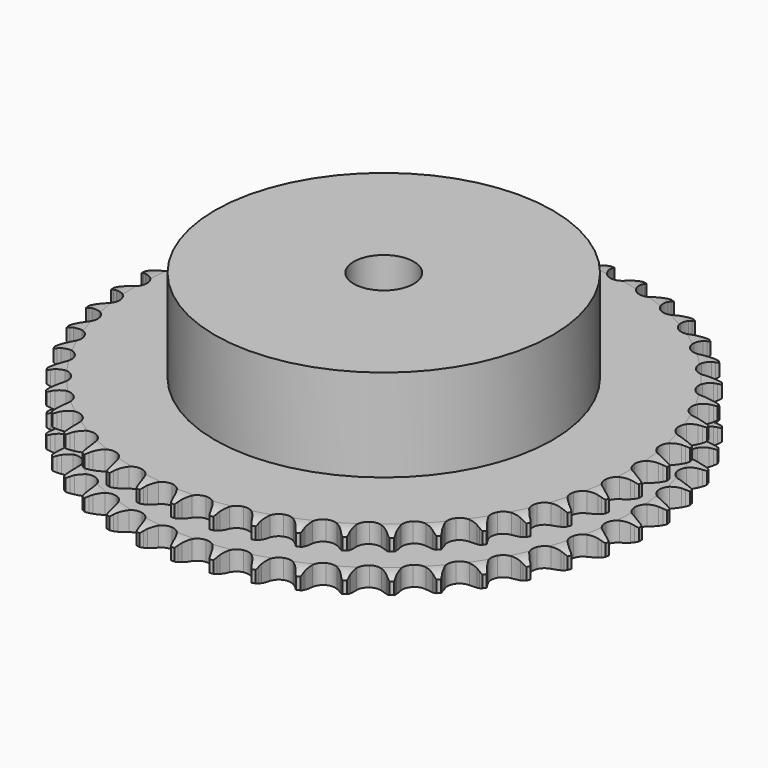
from build123d import *

# Parameters (mm, degrees)
PAD_DEPTH         = 15.4
SKETCH001_R       = 45
PAD001_DEPTH      = 40
SKETCH002_R       = 8
POCKET_DEPTH      = 0.001
POCKET_DEPTH_BACK = 40.001


with BuildPart() as part:
    # Sprocket → Pad (new body)
    with BuildSketch(Plane.XY):
        with BuildLine():
            ThreePointArc((-4.962086, 70.961138), (-4.431722, 70.206206), (-4.045487, 69.368333))
            Line((-4.045487, 69.368333), (-3.736247, 68.498819))
            ThreePointArc((-3.736247, 68.498819), (-3.247048, 67.387906), (-2.60121, 66.360124))
            ThreePointArc((-2.60121, 66.360124), (-1.457549, 65.391943), (0, 65.044258))
            ThreePointArc((0, 65.044258), (1.457549, 65.391943), (2.60121, 66.360124))
            ThreePointArc((2.60121, 66.360124), (3.247048, 67.387906), (3.736247, 68.498819))
            Line((3.736247, 68.498819), (4.045487, 69.368333))
            ThreePointArc((4.045487, 69.368333), (4.431722, 70.206206), (4.962086, 70.961138))
            ThreePointArc((4.962086, 70.961138), (5.382223, 70.139741), (5.648089, 69.256268))
            Line((5.648089, 69.256268), (5.833307, 68.352178))
            ThreePointArc((5.833307, 68.352178), (6.163136, 67.183993), (6.659649, 66.07633))
            ThreePointArc((6.659649, 66.07633), (7.657435, 64.958405), (9.052411, 64.411252))
            ThreePointArc((9.052411, 64.411252), (10.544164, 64.552702), (11.811439, 65.352293))
            Line((11.811439, 65.352293), (13.233079, 67.312208))
            ThreePointArc((13.233079, 67.312208), (13.435335, 67.727151), (13.660323, 68.130222))
            ThreePointArc((13.660323, 68.130222), (14.159408, 68.906188), (14.789677, 69.579961))
            ThreePointArc((14.789677, 69.579961), (15.091409, 68.708085), (15.231732, 67.796209))
            Line((15.231732, 67.796209), (15.289322, 66.87514))
            ThreePointArc((15.289322, 66.87514), (15.453362, 65.672421), (15.790886, 64.506436))
            ThreePointArc((15.790886, 64.506436), (16.623377, 63.260525), (17.928627, 62.524554))
            ThreePointArc((17.928627, 62.524554), (19.425548, 62.457016), (20.791772, 63.072455))
            Line((20.791772, 63.072455), (22.472344, 64.815442))
            ThreePointArc((22.472344, 64.815442), (22.730381, 65.198198), (23.009276, 65.566034))
            ThreePointArc((23.009276, 65.566034), (23.611497, 66.264989), (24.329404, 66.844488))
            ThreePointArc((24.329404, 66.844488), (24.506858, 65.939105), (24.518907, 65.016573))
            Line((24.518907, 65.016573), (24.447748, 64.096453))
            ThreePointArc((24.447748, 64.096453), (24.442805, 62.882609), (24.614771, 61.680997))
            ThreePointArc((24.614771, 61.680997), (25.265762, 60.331351), (26.455883, 59.420887))
            ThreePointArc((26.455883, 59.420887), (27.928837, 59.145674), (29.367417, 59.564982))
            Line((29.367417, 59.564982), (31.274211, 61.057116))
            ThreePointArc((31.274211, 61.057116), (31.583006, 61.400236), (31.910379, 61.725678))
            ThreePointArc((31.910379, 61.725678), (32.604016, 62.334017), (33.395587, 62.807963))
            ThreePointArc((33.395587, 62.807963), (33.445308, 61.886694), (33.328848, 60.971464))
            Line((33.328848, 60.971464), (33.130327, 60.070202))
            ThreePointArc((33.130327, 60.070202), (32.956497, 58.868859), (32.959557, 57.655008))
            ThreePointArc((32.959557, 57.655008), (33.416379, 56.227896), (34.468205, 55.160659))
            ThreePointArc((34.468205, 55.160659), (35.888522, 54.68313), (37.371459, 54.898146))
            Line((37.371459, 54.898146), (39.467361, 56.110384))
            ThreePointArc((39.467361, 56.110384), (39.820904, 56.407188), (40.190384, 56.683901))
            ThreePointArc((40.190384, 56.683901), (40.961934, 57.189785), (41.811762, 57.548953))
            ThreePointArc((41.811762, 57.548953), (41.732784, 56.62973), (41.490082, 55.739615))
            Line((41.490082, 55.739615), (41.168061, 54.874753))
            ThreePointArc((41.168061, 54.874753), (40.828728, 53.709293), (40.662823, 52.506829))
            ThreePointArc((40.662823, 52.506829), (40.916584, 51.030029), (41.809643, 49.826793))
            ThreePointArc((41.809643, 49.826793), (43.149678, 49.156241), (44.648108, 49.162779))
            Line((44.648108, 49.162779), (46.892323, 50.071526))
            ThreePointArc((46.892323, 50.071526), (47.283733, 50.316239), (47.688128, 50.538837))
            ThreePointArc((47.688128, 50.538837), (48.522575, 50.932419), (49.414119, 51.169818))
            ThreePointArc((49.414119, 51.169818), (49.207978, 50.270532), (48.843759, 49.422857))
            Line((48.843759, 49.422857), (48.404506, 48.611229))
            ThreePointArc((48.404506, 48.611229), (47.906275, 47.504337), (47.574634, 46.336665))
            ThreePointArc((47.574634, 46.336665), (47.620394, 44.838921), (48.337304, 43.523104))
            ThreePointArc((48.337304, 43.523104), (49.570975, 42.672581), (51.055732, 42.470514))
            Line((51.055732, 42.470514), (53.40458, 43.058084))
            ThreePointArc((53.40458, 43.058084), (53.826238, 43.245941), (54.257677, 43.410092))
            ThreePointArc((54.257677, 43.410092), (55.13878, 43.683711), (56.054687, 43.794721))
            ThreePointArc((56.054687, 43.794721), (55.725396, 42.932876), (55.246747, 42.14414))
            Line((55.246747, 42.14414), (54.698812, 41.401543))
            ThreePointArc((54.698812, 41.401543), (54.05138, 40.374763), (53.560458, 39.264611))
            ThreePointArc((53.560458, 39.264611), (53.397327, 37.775073), (53.924134, 36.372288))
            ThreePointArc((53.924134, 36.372288), (55.027429, 35.358348), (56.469614, 34.95161))
            Line((56.469614, 34.95161), (58.877377, 35.206564))
            ThreePointArc((58.877377, 35.206564), (59.321076, 35.33391), (59.771162, 35.436419))
            ThreePointArc((59.771162, 35.436419), (60.68177, 35.584749), (61.604213, 35.567209))
            ThreePointArc((61.604213, 35.567209), (61.158181, 34.75958), (60.57442, 34.045135))
            Line((60.57442, 34.045135), (59.928468, 33.386022))
            ThreePointArc((59.928468, 33.386022), (59.144437, 32.459341), (58.503789, 31.428315))
            ThreePointArc((58.503789, 31.428315), (58.134942, 29.975977), (58.461392, 28.513526))
            ThreePointArc((58.461392, 28.513526), (59.412837, 27.355905), (60.784379, 26.752412))
            Line((60.784379, 26.752412), (63.204193, 26.669789))
            ThreePointArc((63.204193, 26.669789), (63.661297, 26.734145), (64.121269, 26.773016))
            ThreePointArc((64.121269, 26.773016), (65.043659, 26.79317), (65.954684, 26.647422))
            ThreePointArc((65.954684, 26.647422), (65.400593, 25.909729), (64.723081, 25.283481))
            Line((64.723081, 25.283481), (63.991684, 24.720681))
            ThreePointArc((63.991684, 24.720681), (63.086314, 23.912134), (62.30841, 22.980303))
            ThreePointArc((62.30841, 22.980303), (61.741027, 21.593433), (61.860766, 20.099781))
            ThreePointArc((61.860766, 20.099781), (62.641841, 18.821011), (63.916046, 18.032509))
            Line((63.916046, 18.032509), (66.300812, 17.613917))
            ThreePointArc((66.300812, 17.613917), (66.762424, 17.61403), (67.223329, 17.588507))
            ThreePointArc((67.223329, 17.588507), (68.139547, 17.480093), (69.021422, 17.208973))
            ThreePointArc((69.021422, 17.208973), (68.370056, 16.555574), (67.611981, 16.029712))
            Line((67.611981, 16.029712), (66.809375, 15.57418))
            ThreePointArc((66.809375, 15.57418), (65.800288, 14.899505), (64.900269, 14.085006))
            ThreePointArc((64.900269, 14.085006), (64.145392, 12.790597), (64.05609, 11.294817))
            ThreePointArc((64.05609, 11.294817), (64.651594, 9.919786), (65.80366, 8.961623))
            Line((65.80366, 8.961623), (68.10696, 8.21521))
            ThreePointArc((68.10696, 8.21521), (68.564096, 8.151078), (69.016964, 8.061658))
            ThreePointArc((69.016964, 8.061658), (69.909177, 7.826786), (70.744737, 7.435571))
            ThreePointArc((70.744737, 7.435571), (70.008774, 6.879183), (69.18489, 6.463943))
            Line((69.18489, 6.463943), (68.326698, 6.124545))
            ThreePointArc((68.326698, 6.124545), (67.233535, 5.596874), (66.228918, 4.91556))
            ThreePointArc((66.228918, 4.91556), (65.301241, 3.738807), (65.004635, 2.270012))
            ThreePointArc((65.004635, 2.270012), (65.402976, 0.825485), (66.41048, -0.28369))
            Line((66.41048, -0.28369), (68.587484, -1.343397))
            ThreePointArc((68.587484, -1.343397), (69.031245, -1.470526), (69.467261, -1.622103))
            ThreePointArc((69.467261, -1.622103), (70.318104, -1.978861), (71.091085, -2.482555))
            ThreePointArc((71.091085, -2.482555), (70.284851, -2.931103), (69.411195, -3.22764))
            Line((69.411195, -3.22764), (68.514119, -3.444297))
            ThreePointArc((68.514119, -3.444297), (67.358157, -3.814694), (66.268497, -4.349562))
            ThreePointArc((66.268497, -4.349562), (65.186075, -5.385755), (64.687939, -6.798976))
            ThreePointArc((64.687939, -6.798976), (64.881364, -8.284884), (65.724696, -9.523482))
            Line((65.724696, -9.523482), (67.733031, -10.875856))
            ThreePointArc((67.733031, -10.875856), (68.15478, -11.063507), (68.565457, -11.274291))
            ThreePointArc((68.565457, -11.274291), (69.358368, -11.745991), (70.053727, -12.352362))
            ThreePointArc((70.053727, -12.352362), (69.192913, -12.684338), (68.286489, -12.8564))
            Line((68.286489, -12.8564), (67.367991, -12.9461))
            ThreePointArc((67.367991, -12.9461), (66.171729, -13.152013), (65.018234, -13.530024))
            ThreePointArc((65.018234, -13.530024), (63.802136, -14.40549), (63.112166, -15.73563))
            ThreePointArc((63.112166, -15.73563), (63.09691, -17.233996), (63.759655, -18.57791))
            Line((63.759655, -18.57791), (65.560231, -20.196629))
            ThreePointArc((65.560231, -20.196629), (65.95176, -20.44115), (66.329105, -20.707037))
            ThreePointArc((66.329105, -20.707037), (67.048652, -21.284499), (67.652852, -21.981744))
            ThreePointArc((67.652852, -21.981744), (66.754213, -22.190687), (65.832664, -22.234925))
            Line((65.832664, -22.234925), (64.910622, -22.195921))
            ThreePointArc((64.910622, -22.195921), (63.697344, -22.233344), (62.502466, -22.44714))
            ThreePointArc((62.502466, -22.44714), (61.176362, -23.144837), (60.307986, -24.366008))
            ThreePointArc((60.307986, -24.366008), (60.084347, -25.847669), (60.553605, -27.27074))
            Line((60.553605, -27.27074), (62.111376, -29.124297))
            ThreePointArc((62.111376, -29.124297), (62.465064, -29.420929), (62.801732, -29.736745))
            ThreePointArc((62.801732, -29.736745), (63.433909, -30.408729), (63.935192, -31.183277))
            ThreePointArc((63.935192, -31.183277), (63.016219, -31.26512), (62.097482, -31.180672))
            Line((62.097482, -31.180672), (61.189841, -31.013725))
            ThreePointArc((61.189841, -31.013725), (59.983162, -30.881927), (58.770158, -30.927348))
            ThreePointArc((58.770158, -30.927348), (57.359859, -31.433697), (56.32998, -32.522129))
            ThreePointArc((56.32998, -32.522129), (55.90231, -33.958246), (56.168948, -35.432776))
            Line((56.168948, -35.432776), (57.453594, -37.485094))
            ThreePointArc((57.453594, -37.485094), (57.762556, -37.828063), (58.051995, -38.187661))
            ThreePointArc((58.051995, -38.187661), (58.584497, -38.941087), (58.973105, -39.777862))
            ThreePointArc((58.973105, -39.777862), (58.051686, -39.731012), (57.153643, -39.519523))
            Line((57.153643, -39.519523), (56.278069, -39.227881))
            ThreePointArc((56.278069, -39.227881), (55.101477, -38.929429), (53.893956, -38.805591))
            ThreePointArc((53.893956, -38.805591), (52.426911, -39.110736), (51.255575, -40.045244))
            ThreePointArc((51.255575, -40.045244), (50.632198, -41.407864), (50.691027, -42.905153))
            Line((50.691027, -42.905153), (51.677543, -45.116287))
            ThreePointArc((51.677543, -45.116287), (51.935766, -45.498917), (52.172342, -45.895298))
            ThreePointArc((52.172342, -45.895298), (52.594805, -46.715501), (52.863175, -47.598216))
            ThreePointArc((52.863175, -47.598216), (51.957243, -47.423586), (51.097373, -47.089171))
            Line((51.097373, -47.089171), (50.270909, -46.678512))
            ThreePointArc((50.270909, -46.678512), (49.147304, -46.219214), (47.968769, -45.928526))
            ThreePointArc((47.968769, -45.928526), (46.473534, -46.026529), (45.183538, -46.788924))
            ThreePointArc((45.183538, -46.788924), (44.376588, -48.051526), (44.226462, -49.54243))
            Line((44.226462, -49.54243), (44.895647, -51.869342))
            ThreePointArc((44.895647, -51.869342), (45.098105, -52.284186), (45.277213, -52.709634))
            ThreePointArc((45.277213, -52.709634), (45.581415, -53.580651), (45.724323, -54.492126))
            ThreePointArc((45.724323, -54.492126), (44.851511, -54.193114), (44.046551, -53.742283))
            Line((44.046551, -53.742283), (43.285283, -53.220598))
            ThreePointArc((43.285283, -53.220598), (42.236534, -52.609394), (41.109925, -52.157515))
            ThreePointArc((41.109925, -52.157515), (39.615602, -52.046468), (38.232056, -52.62191))
            ThreePointArc((38.232056, -52.62191), (37.257238, -53.759919), (36.901079, -55.215421))
            Line((36.901079, -55.215421), (37.239908, -57.612819))
            ThreePointArc((37.239908, -57.612819), (37.382661, -58.051804), (37.500815, -58.498038))
            ThreePointArc((37.500815, -58.498038), (37.680835, -59.402915), (37.695499, -60.325408))
            ThreePointArc((37.695499, -60.325408), (36.872795, -59.907834), (36.138413, -59.349362))
            Line((36.138413, -59.349362), (35.457158, -58.726806))
            ThreePointArc((35.457158, -58.726806), (34.503679, -57.975593), (33.450923, -57.371318))
            ThreePointArc((33.450923, -57.371318), (31.986597, -57.053381), (30.53643, -57.430671))
            ThreePointArc((30.53643, -57.430671), (29.412719, -58.421937), (28.857459, -59.813706))
            Line((28.857459, -59.813706), (28.859337, -62.234929))
            ThreePointArc((28.859337, -62.234929), (28.939606, -62.689508), (28.994507, -63.147844))
            ThreePointArc((28.994507, -63.147844), (29.04684, -64.068968), (28.932975, -64.984525))
            ThreePointArc((28.932975, -64.984525), (28.176393, -64.456516), (27.526881, -63.801273))
            Line((27.526881, -63.801273), (26.9389, -63.089963))
            ThreePointArc((26.9389, -63.089963), (26.099248, -62.213362), (25.140837, -61.468453))
            ThreePointArc((25.140837, -61.468453), (23.73501, -60.949816), (22.246447, -61.121609))
            ThreePointArc((22.246447, -61.121609), (20.995714, -61.946838), (20.252161, -63.247785))
            Line((20.252161, -63.247785), (19.917052, -65.645706))
            ThreePointArc((19.917052, -65.645706), (19.933275, -66.107033), (19.923853, -66.568549))
            ThreePointArc((19.923853, -66.568549), (19.847481, -67.487992), (19.607303, -68.378792))
            ThreePointArc((19.607303, -68.378792), (18.931569, -67.750626), (18.379571, -67.011364))
            Line((18.379571, -67.011364), (17.896306, -66.225146))
            ThreePointArc((17.896306, -66.225146), (17.186826, -65.240219), (16.341413, -64.369174))
            ThreePointArc((16.341413, -64.369174), (15.021447, -63.659931), (13.523462, -63.622885))
            ThreePointArc((13.523462, -63.622885), (12.170052, -64.266014), (11.252679, -65.450818))
            Line((11.252679, -65.450818), (10.587104, -67.778765))
            ThreePointArc((10.587104, -67.778765), (10.538965, -68.23786), (10.465404, -68.693573))
            ThreePointArc((10.465404, -68.693573), (10.261813, -69.593439), (9.899998, -70.442143))
            ThreePointArc((9.899998, -70.442143), (9.318264, -69.726046), (8.874523, -68.917156))
            Line((8.874523, -68.917156), (8.505382, -68.071332))
            ThreePointArc((8.505382, -68.071332), (7.939881, -66.99725), (7.223922, -66.017023))
            ThreePointArc((7.223922, -66.017023), (6.01551, -65.130978), (4.537258, -64.885814))
            ThreePointArc((4.537258, -64.885814), (3.107513, -65.334325), (2.034175, -66.379925))
            Line((2.034175, -66.379925), (1.05109, -68.592587))
            ThreePointArc((1.05109, -68.592587), (0.939526, -69.040514), (0.803258, -69.481554))
            ThreePointArc((0.803258, -69.481554), (0.476411, -70.344329), (0, -71.134418))
            ThreePointArc((0, -71.134418), (-0.476411, -70.344329), (-0.803258, -69.481554))
            Line((-0.803258, -69.481554), (-1.05109, -68.592587))
            ThreePointArc((-1.05109, -68.592587), (-1.461605, -67.450255), (-2.034175, -66.379925))
            ThreePointArc((-2.034175, -66.379925), (-3.107513, -65.334325), (-4.537258, -64.885814))
            ThreePointArc((-4.537258, -64.885814), (-6.01551, -65.130978), (-7.223922, -66.017023))
            Line((-7.223922, -66.017023), (-8.505382, -68.071332))
            ThreePointArc((-8.505382, -68.071332), (-8.6782, -68.499373), (-8.874523, -68.917156))
            ThreePointArc((-8.874523, -68.917156), (-9.318264, -69.726046), (-9.899998, -70.442143))
            ThreePointArc((-9.899998, -70.442143), (-10.261813, -69.593439), (-10.465404, -68.693573))
            Line((-10.465404, -68.693573), (-10.587104, -67.778765))
            ThreePointArc((-10.587104, -67.778765), (-10.834641, -66.590418), (-11.252679, -65.450818))
            ThreePointArc((-11.252679, -65.450818), (-12.170052, -64.266014), (-13.523462, -63.622885))
            ThreePointArc((-13.523462, -63.622885), (-15.021447, -63.659931), (-16.341413, -64.369174))
            Line((-16.341413, -64.369174), (-17.896306, -66.225146))
            ThreePointArc((-17.896306, -66.225146), (-18.127015, -66.62497), (-18.379571, -67.011364))
            ThreePointArc((-18.379571, -67.011364), (-18.931569, -67.750626), (-19.607303, -68.378792))
            ThreePointArc((-19.607303, -68.378792), (-19.847481, -67.487992), (-19.923853, -66.568549))
            Line((-19.923853, -66.568549), (-19.917052, -65.645706))
            ThreePointArc((-19.917052, -65.645706), (-19.996794, -64.434474), (-20.252161, -63.247785))
            ThreePointArc((-20.252161, -63.247785), (-20.995714, -61.946838), (-22.246447, -61.121609))
            ThreePointArc((-22.246447, -61.121609), (-23.73501, -60.949816), (-25.140837, -61.468453))
            Line((-25.140837, -61.468453), (-26.9389, -63.089963))
            ThreePointArc((-26.9389, -63.089963), (-27.223007, -63.453787), (-27.526881, -63.801273))
            ThreePointArc((-27.526881, -63.801273), (-28.176393, -64.456516), (-28.932975, -64.984525))
            ThreePointArc((-28.932975, -64.984525), (-29.04684, -64.068968), (-28.994507, -63.147844))
            Line((-28.994507, -63.147844), (-28.859337, -62.234929))
            ThreePointArc((-28.859337, -62.234929), (-28.769733, -61.024386), (-28.857459, -59.813706))
            ThreePointArc((-28.857459, -59.813706), (-29.412719, -58.421937), (-30.53643, -57.430671))
            ThreePointArc((-30.53643, -57.430671), (-31.986597, -57.053381), (-33.450923, -57.371318))
            Line((-33.450923, -57.371318), (-35.457158, -58.726806))
            ThreePointArc((-35.457158, -58.726806), (-35.789135, -59.047549), (-36.138413, -59.349362))
            ThreePointArc((-36.138413, -59.349362), (-36.872795, -59.907834), (-37.695499, -60.325408))
            ThreePointArc((-37.695499, -60.325408), (-37.680835, -59.402915), (-37.500815, -58.498038))
            Line((-37.500815, -58.498038), (-37.239908, -57.612819))
            ThreePointArc((-37.239908, -57.612819), (-36.9827, -56.426528), (-36.901079, -55.215421))
            ThreePointArc((-36.901079, -55.215421), (-37.257238, -53.759919), (-38.232056, -52.62191))
            ThreePointArc((-38.232056, -52.62191), (-39.615602, -52.046468), (-41.109925, -52.157515))
            Line((-41.109925, -52.157515), (-43.285283, -53.220598))
            ThreePointArc((-43.285283, -53.220598), (-43.658668, -53.492017), (-44.046551, -53.742283))
            ThreePointArc((-44.046551, -53.742283), (-44.851511, -54.193114), (-45.724323, -54.492126))
            ThreePointArc((-45.724323, -54.492126), (-45.581415, -53.580651), (-45.277213, -52.709634))
            Line((-45.277213, -52.709634), (-44.895647, -51.869342))
            ThreePointArc((-44.895647, -51.869342), (-44.475842, -50.730392), (-44.226462, -49.54243))
            ThreePointArc((-44.226462, -49.54243), (-44.376588, -48.051526), (-45.183538, -46.788924))
            ThreePointArc((-45.183538, -46.788924), (-46.473534, -46.026529), (-47.968769, -45.928526))
            Line((-47.968769, -45.928526), (-50.270909, -46.678512))
            ThreePointArc((-50.270909, -46.678512), (-50.678435, -46.895325), (-51.097373, -47.089171))
            ThreePointArc((-51.097373, -47.089171), (-51.957243, -47.423586), (-52.863175, -47.598216))
            ThreePointArc((-52.863175, -47.598216), (-52.594805, -46.715501), (-52.172342, -45.895298))
            Line((-52.172342, -45.895298), (-51.677543, -45.116287))
            ThreePointArc((-51.677543, -45.116287), (-51.103312, -44.046846), (-50.691027, -42.905153))
            ThreePointArc((-50.691027, -42.905153), (-50.632198, -41.407864), (-51.255575, -40.045244))
            ThreePointArc((-51.255575, -40.045244), (-52.426911, -39.110736), (-53.893956, -38.805591))
            Line((-53.893956, -38.805591), (-56.278069, -39.227881))
            ThreePointArc((-56.278069, -39.227881), (-56.711804, -39.385868), (-57.153643, -39.519523))
            ThreePointArc((-57.153643, -39.519523), (-58.051686, -39.731012), (-58.973105, -39.777862))
            ThreePointArc((-58.973105, -39.777862), (-58.584497, -38.941087), (-58.051995, -38.187661))
            Line((-58.051995, -38.187661), (-57.453594, -37.485094))
            ThreePointArc((-57.453594, -37.485094), (-56.736115, -36.505979), (-56.168948, -35.432776))
            ThreePointArc((-56.168948, -35.432776), (-55.90231, -33.958246), (-56.32998, -32.522129))
            ThreePointArc((-56.32998, -32.522129), (-57.359859, -31.433697), (-58.770158, -30.927348))
            Line((-58.770158, -30.927348), (-61.189841, -31.013725))
            ThreePointArc((-61.189841, -31.013725), (-61.641342, -31.109809), (-62.097482, -31.180672))
            ThreePointArc((-62.097482, -31.180672), (-63.016219, -31.26512), (-63.935192, -31.183277))
            ThreePointArc((-63.935192, -31.183277), (-63.433909, -30.408729), (-62.801732, -29.736745))
            Line((-62.801732, -29.736745), (-62.111376, -29.124297))
            ThreePointArc((-62.111376, -29.124297), (-61.264613, -28.254564), (-60.553605, -27.27074))
            ThreePointArc((-60.553605, -27.27074), (-60.084347, -25.847669), (-60.307986, -24.366008))
            ThreePointArc((-60.307986, -24.366008), (-61.176362, -23.144837), (-62.502466, -22.44714))
            Line((-62.502466, -22.44714), (-64.910622, -22.195921))
            ThreePointArc((-64.910622, -22.195921), (-65.371101, -22.228234), (-65.832664, -22.234925))
            ThreePointArc((-65.832664, -22.234925), (-66.754213, -22.190687), (-67.652852, -21.981744))
            ThreePointArc((-67.652852, -21.981744), (-67.048652, -21.284499), (-66.329105, -20.707037))
            Line((-66.329105, -20.707037), (-65.560231, -20.196629))
            ThreePointArc((-65.560231, -20.196629), (-64.600665, -19.453207), (-63.759655, -18.57791))
            ThreePointArc((-63.759655, -18.57791), (-63.09691, -17.233996), (-63.112166, -15.73563))
            ThreePointArc((-63.112166, -15.73563), (-63.802136, -14.40549), (-65.018234, -13.530024))
            Line((-65.018234, -13.530024), (-67.367991, -12.9461))
            ThreePointArc((-67.367991, -12.9461), (-67.828486, -12.914012), (-68.286489, -12.8564))
            ThreePointArc((-68.286489, -12.8564), (-69.192913, -12.684338), (-70.053727, -12.352362))
            ThreePointArc((-70.053727, -12.352362), (-69.358368, -11.745991), (-68.565457, -11.274291))
            Line((-68.565457, -11.274291), (-67.733031, -10.875856))
            ThreePointArc((-67.733031, -10.875856), (-66.679339, -10.273214), (-65.724696, -9.523482))
            ThreePointArc((-65.724696, -9.523482), (-64.881364, -8.284884), (-64.687939, -6.798976))
            ThreePointArc((-64.687939, -6.798976), (-65.186075, -5.385755), (-66.268497, -4.349562))
            Line((-66.268497, -4.349562), (-68.514119, -3.444297))
            ThreePointArc((-68.514119, -3.444297), (-68.965667, -3.348433), (-69.411195, -3.22764))
            ThreePointArc((-69.411195, -3.22764), (-70.284851, -2.931103), (-71.091085, -2.482555))
            ThreePointArc((-71.091085, -2.482555), (-70.318104, -1.978861), (-69.467261, -1.622103))
            Line((-69.467261, -1.622103), (-68.587484, -1.343397))
            ThreePointArc((-68.587484, -1.343397), (-67.460176, -0.893266), (-66.41048, -0.28369))
            ThreePointArc((-66.41048, -0.28369), (-65.402976, 0.825485), (-65.004635, 2.270012))
            ThreePointArc((-65.004635, 2.270012), (-65.301241, 3.738807), (-66.228918, 4.91556))
            Line((-66.228918, 4.91556), (-68.326698, 6.124545))
            ThreePointArc((-68.326698, 6.124545), (-68.76051, 6.28232), (-69.18489, 6.463943))
            ThreePointArc((-69.18489, 6.463943), (-70.008774, 6.879183), (-70.744737, 7.435571))
            ThreePointArc((-70.744737, 7.435571), (-69.909177, 7.826786), (-69.016964, 8.061658))
            Line((-69.016964, 8.061658), (-68.10696, 8.21521))
            ThreePointArc((-68.10696, 8.21521), (-66.927976, 8.504069), (-65.80366, 8.961623))
            ThreePointArc((-65.80366, 8.961623), (-64.651594, 9.919786), (-64.05609, 11.294817))
            ThreePointArc((-64.05609, 11.294817), (-64.145392, 12.790597), (-64.900269, 14.085006))
            Line((-64.900269, 14.085006), (-66.809375, 15.57418))
            ThreePointArc((-66.809375, 15.57418), (-67.217007, 15.790794), (-67.611981, 16.029712))
            ThreePointArc((-67.611981, 16.029712), (-68.370056, 16.555574), (-69.021422, 17.208973))
            ThreePointArc((-69.021422, 17.208973), (-68.139547, 17.480093), (-67.223329, 17.588507))
            Line((-67.223329, 17.588507), (-66.300812, 17.613917))
            ThreePointArc((-66.300812, 17.613917), (-65.0931, 17.735882), (-63.916046, 18.032509))
            ThreePointArc((-63.916046, 18.032509), (-62.641841, 18.821011), (-61.860766, 20.099781))
            ThreePointArc((-61.860766, 20.099781), (-61.741027, 21.593433), (-62.30841, 22.980303))
            Line((-62.30841, 22.980303), (-63.991684, 24.720681))
            ThreePointArc((-63.991684, 24.720681), (-64.365202, 24.991919), (-64.723081, 25.283481))
            ThreePointArc((-64.723081, 25.283481), (-65.400593, 25.909729), (-65.954684, 26.647422))
            ThreePointArc((-65.954684, 26.647422), (-65.043659, 26.79317), (-64.121269, 26.773016))
            Line((-64.121269, 26.773016), (-63.204193, 26.669789))
            ThreePointArc((-63.204193, 26.669789), (-61.991261, 26.622486), (-60.784379, 26.752412))
            ThreePointArc((-60.784379, 26.752412), (-59.412837, 27.355905), (-58.461392, 28.513526))
            ThreePointArc((-58.461392, 28.513526), (-58.134942, 29.975977), (-58.503789, 31.428315))
            Line((-58.503789, 31.428315), (-59.928468, 33.386022))
            ThreePointArc((-59.928468, 33.386022), (-60.260602, 33.706604), (-60.57442, 34.045135))
            ThreePointArc((-60.57442, 34.045135), (-61.158181, 34.75958), (-61.604213, 35.567209))
            ThreePointArc((-61.604213, 35.567209), (-60.68177, 35.584749), (-59.771162, 35.436419))
            Line((-59.771162, 35.436419), (-58.877377, 35.206564))
            ThreePointArc((-58.877377, 35.206564), (-57.682832, 34.990914), (-56.469614, 34.95161))
            ThreePointArc((-56.469614, 34.95161), (-55.027429, 35.358348), (-53.924134, 36.372288))
            ThreePointArc((-53.924134, 36.372288), (-53.397327, 37.775073), (-53.560458, 39.264611))
            Line((-53.560458, 39.264611), (-54.698812, 41.401543))
            ThreePointArc((-54.698812, 41.401543), (-54.983097, 41.765228), (-55.246747, 42.14414))
            ThreePointArc((-55.246747, 42.14414), (-55.725396, 42.932876), (-56.054687, 43.794721))
            ThreePointArc((-56.054687, 43.794721), (-55.13878, 43.683711), (-54.257677, 43.410092))
            Line((-54.257677, 43.410092), (-53.40458, 43.058084))
            ThreePointArc((-53.40458, 43.058084), (-52.251673, 42.678284), (-51.055732, 42.470514))
            ThreePointArc((-51.055732, 42.470514), (-49.570975, 42.672581), (-48.337304, 43.523104))
            ThreePointArc((-48.337304, 43.523104), (-47.620394, 44.838921), (-47.574634, 46.336665))
            Line((-47.574634, 46.336665), (-48.404506, 48.611229))
            ThreePointArc((-48.404506, 48.611229), (-48.635409, 49.01094), (-48.843759, 49.422857))
            ThreePointArc((-48.843759, 49.422857), (-49.207978, 50.270532), (-49.414119, 51.169818))
            ThreePointArc((-49.414119, 51.169818), (-48.522575, 50.932419), (-47.688128, 50.538837))
            Line((-47.688128, 50.538837), (-46.892323, 50.071526))
            ThreePointArc((-46.892323, 50.071526), (-45.803494, 49.534969), (-44.648108, 49.162779))
            ThreePointArc((-44.648108, 49.162779), (-43.149678, 49.156241), (-41.809643, 49.826793))
            ThreePointArc((-41.809643, 49.826793), (-40.916584, 51.030029), (-40.662823, 52.506829))
            Line((-40.662823, 52.506829), (-41.168061, 54.874753))
            ThreePointArc((-41.168061, 54.874753), (-41.341088, 55.30271), (-41.490082, 55.739615))
            ThreePointArc((-41.490082, 55.739615), (-41.732784, 56.62973), (-41.811762, 57.548953))
            ThreePointArc((-41.811762, 57.548953), (-40.961934, 57.189785), (-40.190384, 56.683901))
            Line((-40.190384, 56.683901), (-39.467361, 56.110384))
            ThreePointArc((-39.467361, 56.110384), (-38.463802, 55.427512), (-37.371459, 54.898146))
            ThreePointArc((-37.371459, 54.898146), (-35.888522, 54.68313), (-34.468205, 55.160659))
            ThreePointArc((-34.468205, 55.160659), (-33.416379, 56.227896), (-32.959557, 57.655008))
            Line((-32.959557, 57.655008), (-33.130327, 60.070202))
            ThreePointArc((-33.130327, 60.070202), (-33.24211, 60.518075), (-33.328848, 60.971464))
            ThreePointArc((-33.328848, 60.971464), (-33.445308, 61.886694), (-33.395587, 62.807963))
            ThreePointArc((-33.395587, 62.807963), (-32.604016, 62.334017), (-31.910379, 61.725678))
            Line((-31.910379, 61.725678), (-31.274211, 61.057116))
            ThreePointArc((-31.274211, 61.057116), (-30.375456, 60.241222), (-29.367417, 59.564982))
            ThreePointArc((-29.367417, 59.564982), (-27.928837, 59.145674), (-26.455883, 59.420887))
            ThreePointArc((-26.455883, 59.420887), (-25.265762, 60.331351), (-24.614771, 61.680997))
            Line((-24.614771, 61.680997), (-24.447748, 64.096453))
            ThreePointArc((-24.447748, 64.096453), (-24.496112, 64.555525), (-24.518907, 65.016573))
            ThreePointArc((-24.518907, 65.016573), (-24.506858, 65.939105), (-24.329404, 66.844488))
            ThreePointArc((-24.329404, 66.844488), (-23.611497, 66.264989), (-23.009276, 65.566034))
            Line((-23.009276, 65.566034), (-22.472344, 64.815442))
            ThreePointArc((-22.472344, 64.815442), (-21.695887, 63.882405), (-20.791772, 63.072455))
            ThreePointArc((-20.791772, 63.072455), (-19.425548, 62.457016), (-17.928627, 62.524554))
            ThreePointArc((-17.928627, 62.524554), (-16.623377, 63.260525), (-15.790886, 64.506436))
            Line((-15.790886, 64.506436), (-15.289322, 66.87514))
            ThreePointArc((-15.289322, 66.87514), (-15.273325, 67.336475), (-15.231732, 67.796209))
            ThreePointArc((-15.231732, 67.796209), (-15.091409, 68.708085), (-14.789677, 69.579961))
            ThreePointArc((-14.789677, 69.579961), (-14.159408, 68.906188), (-13.660323, 68.130222))
            Line((-13.660323, 68.130222), (-13.233079, 67.312208))
            ThreePointArc((-13.233079, 67.312208), (-12.594032, 66.28019), (-11.811439, 65.352293))
            ThreePointArc((-11.811439, 65.352293), (-10.544164, 64.552702), (-9.052411, 64.411252))
            ThreePointArc((-9.052411, 64.411252), (-7.657435, 64.958405), (-6.659649, 66.07633))
            Line((-6.659649, 66.07633), (-5.833307, 68.352178))
            ThreePointArc((-5.833307, 68.352178), (-5.75326, 68.806797), (-5.648089, 69.256268))
            ThreePointArc((-5.648089, 69.256268), (-5.382223, 70.139741), (-4.962086, 70.961138))
        make_face()
    extrude(amount=PAD_DEPTH)

    # Sketch → Groove (revolve, cut)
    with BuildSketch(Plane.XZ):
        with BuildLine():
            ThreePointArc((65.991101, 0), (68.227169, 0.253206), (70.35, 1))
            Line((70.35, 1), (70.35, 4.2))
            ThreePointArc((70.35, 4.2), (68.227169, 4.946794), (65.991101, 5.2))
            Line((45, 5.2), (65.991101, 5.2))
            Line((45, 10.2), (45, 5.2))
            Line((65.991101, 10.2), (45, 10.2))
            ThreePointArc((65.991101, 10.2), (68.227169, 10.453206), (70.35, 11.2))
            Line((70.35, 11.2), (70.35, 14.4))
            ThreePointArc((70.35, 14.4), (68.227169, 15.146794), (65.991101, 15.4))
            Line((65.991101, 15.4), (75.991101, 15.4))
            Line((75.991101, 15.4), (75.991101, 0))
            Line((65.991101, 0), (75.991101, 0))
        make_face()
    revolve(axis=Axis((0, 0, 0), (0, 0, 1)), mode=Mode.SUBTRACT)

    # Sketch001 → Pad001 (join)
    with BuildSketch(Plane.XY):
        Circle(SKETCH001_R)
    extrude(amount=PAD001_DEPTH)

    # Sketch002 → Pocket (cut, two sides)
    with BuildSketch(Plane.XY) as pocket_sk:
        Circle(SKETCH002_R)
    extrude(amount=-POCKET_DEPTH, mode=Mode.SUBTRACT)
    extrude(pocket_sk.sketch, amount=POCKET_DEPTH_BACK, mode=Mode.SUBTRACT)


solid = part.part
